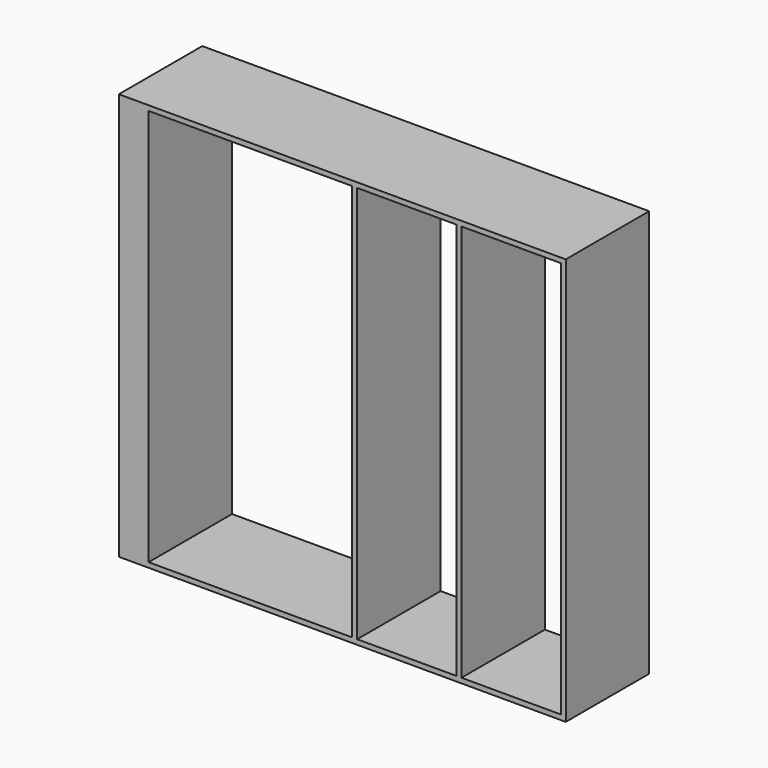
from build123d import *

# Parameters (mm, degrees)
F0_W     = 1041.4
F0_H     = 2032
F0_W_2   = 508
F1_DEPTH = 533.4


with BuildPart() as f1:
    # F0 (on Front) → F1 (new body)
    with BuildSketch(Plane.XZ):
        Polygon((-508, -1371.6), (1778, -1371.6), (1778, 711.2), (-508, 711.2), (-508, -152.4), align=None)
        with Locations((165.1, -330.2)):
            Rectangle(F0_W, F0_H, mode=Mode.SUBTRACT)
        with Locations((965.2, -330.2)):
            Rectangle(F0_W_2, F0_H, mode=Mode.SUBTRACT)
        with Locations((1498.6, -330.2)):
            Rectangle(F0_W_2, F0_H, mode=Mode.SUBTRACT)
    extrude(amount=F1_DEPTH)


solid = f1.part
